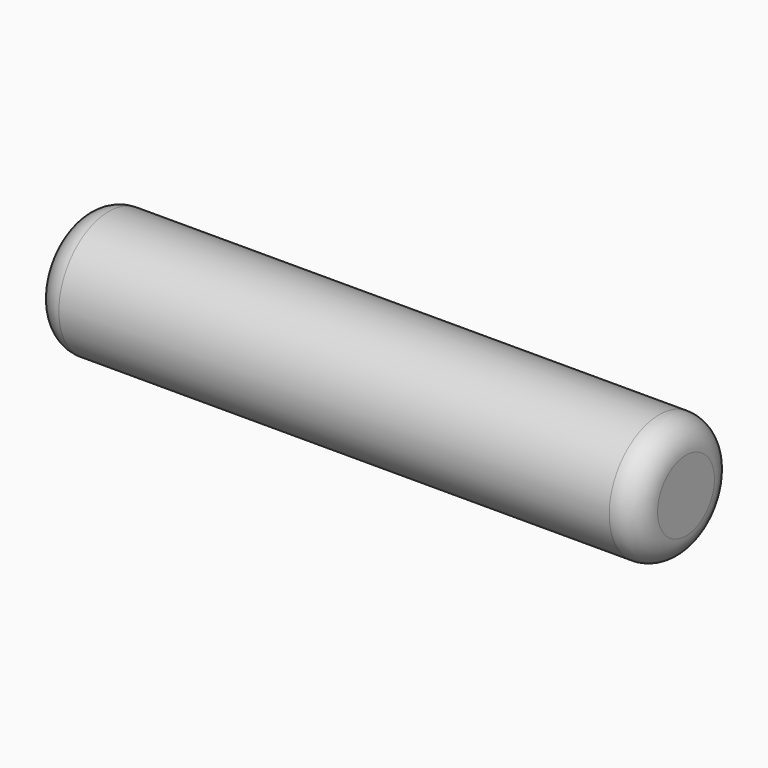
from build123d import *

# Parameters (mm, degrees)
F0_R     = 4.65
F1_DEPTH = 45
F2_R     = 2
F3_R     = 2


with BuildPart() as f1:
    # F0 (on Right) → F1 (new body)
    with BuildSketch(Plane.YZ):
        Circle(F0_R)
    extrude(amount=F1_DEPTH)

    # F2
    f2_edges = [f1.edges().sort_by_distance(p)[0] for p in [
        (0, -4.65, 0),
    ]]
    fillet(f2_edges, radius=F2_R)

    # F3
    f3_edges = [f1.edges().sort_by_distance(p)[0] for p in [
        (45, -4.65, 0),
    ]]
    fillet(f3_edges, radius=F3_R)


solid = f1.part
